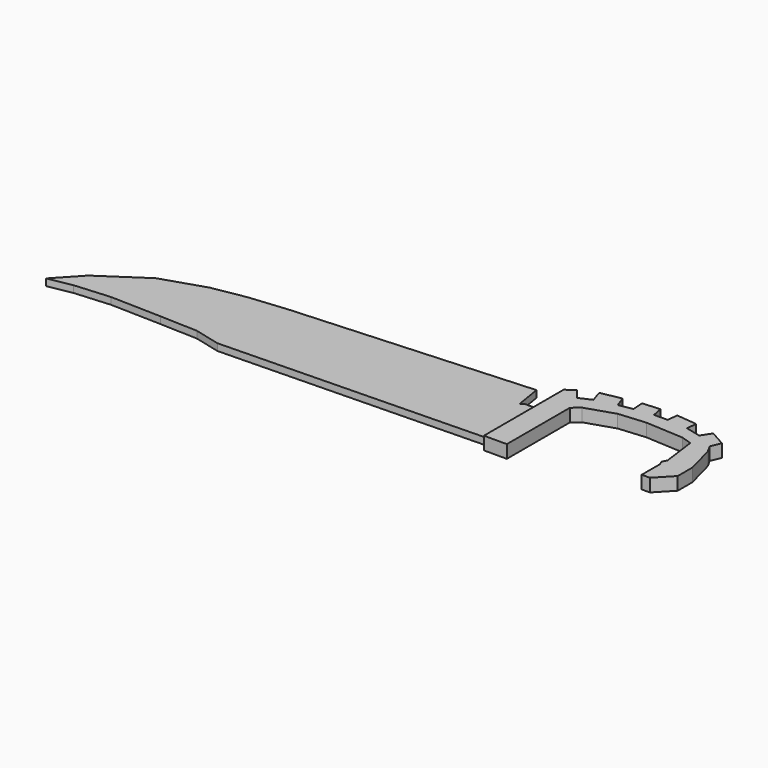
from build123d import *

# Parameters (mm, degrees)
F1_DEPTH = 6.35
F3_DEPTH = 12


with BuildPart() as f1:
    # F0 (on Top) → F1 (new body)
    with BuildSketch(Plane.XY):
        Polygon((21.034835, 45.200661), (0, 22.643412), (22.288013, 26.716249), (54.870706, 29.222609), (101.551674, 27.969429), (136.327431, 26.716249), (160.137847, 20.763641), (407.640994, 26.716249), (407.640994, 85.302427), (392.916113, 85.302427), (390.096456, 82.48277), (386.023641, 107.546389), (167.343646, 94.074696), (132.254586, 90.628453), (101.551674, 85.302427), (61.763193, 72.457336), align=None)
    extrude(amount=F1_DEPTH)


with BuildPart() as f3:
    # F2 (on Top) → F3 (new body)
    with BuildSketch(Plane.XY):
        Polygon((407.720745, 111.832939), (407.720745, 26.619016), (407.720745, 19.619016), (428.928822, 19.619016), (428.928822, 92.491254), (435.667843, 98.239236), (461.831093, 106.762111), (486.805081, 108.942382), (521.8876, 106.960319), (531.401515, 103.789017), (535.563886, 72.274201), (533.383608, 68.111867), (534.96927, 63.949533), (534.96927, 43.137863), (542.501092, 43.137863), (556.573749, 57.805136), (556.573749, 74.850887), (549.438298, 101.608746), (545.474172, 108.545974), (549.438298, 117.861666), (534.96927, 125.988141), (529.079378, 117.017046), (515.079021, 120.4338), (516.019642, 129.785448), (496.97763, 131.700759), (495.998881, 121.970045), (483.374, 121.771358), (481.488317, 131.700759), (465.342313, 130.610421), (466.071188, 119.817058), (453.318191, 117.39515), (449.667692, 127.664074), (430.803465, 124.081588), (434.464484, 112.932295), (423.268348, 107.864559), (415.60781, 117.39515), align=None)
    extrude(amount=F3_DEPTH)


solid = Compound([f1.part, f3.part])
